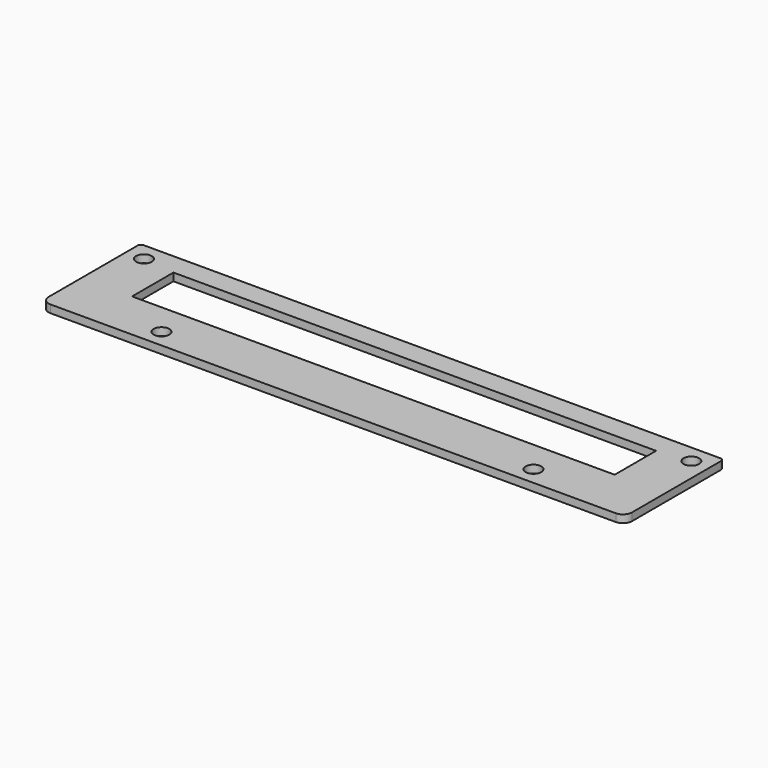
from build123d import *

# Parameters (mm, degrees)
F0_W     = 128.67894
F0_H     = 27.281861
F0_R     = 1.7272
F0_W_2   = 106.45394
F0_H_2   = 11.406861
F1_DEPTH = 1.70942
F2_R     = 1.98374
F3_R     = 0.762


with BuildPart() as f1:
    # F0 (on Top) → F1 (new body)
    with BuildSketch(Plane.XY):
        with Locations((64.33947, -13.64093)):
            Rectangle(F0_W, F0_H)
        with Locations((23.313111, -23.313111)):
            Circle(F0_R, mode=Mode.SUBTRACT)
        with Locations((105.365829, -23.313111)):
            Circle(F0_R, mode=Mode.SUBTRACT)
        with Locations((3.96875, -3.96875)):
            Circle(F0_R, mode=Mode.SUBTRACT)
        with Locations((64.33947, -10.46593)):
            Rectangle(F0_W_2, F0_H_2, mode=Mode.SUBTRACT)
        with Locations((124.71019, -3.96875)):
            Circle(F0_R, mode=Mode.SUBTRACT)
    extrude(amount=F1_DEPTH)

    # F2
    f2_edges = [f1.edges().sort_by_distance(p)[0] for p in [
        (0, -27.281861, 0.85471),
        (128.67894, -27.281861, 0.85471),
    ]]
    fillet(f2_edges, radius=F2_R)

    # F3
    f3_edges = [f1.edges().sort_by_distance(p)[0] for p in [
        (0, 0, 0.85471),
        (128.67894, 0, 0.85471),
    ]]
    fillet(f3_edges, radius=F3_R)


solid = f1.part
